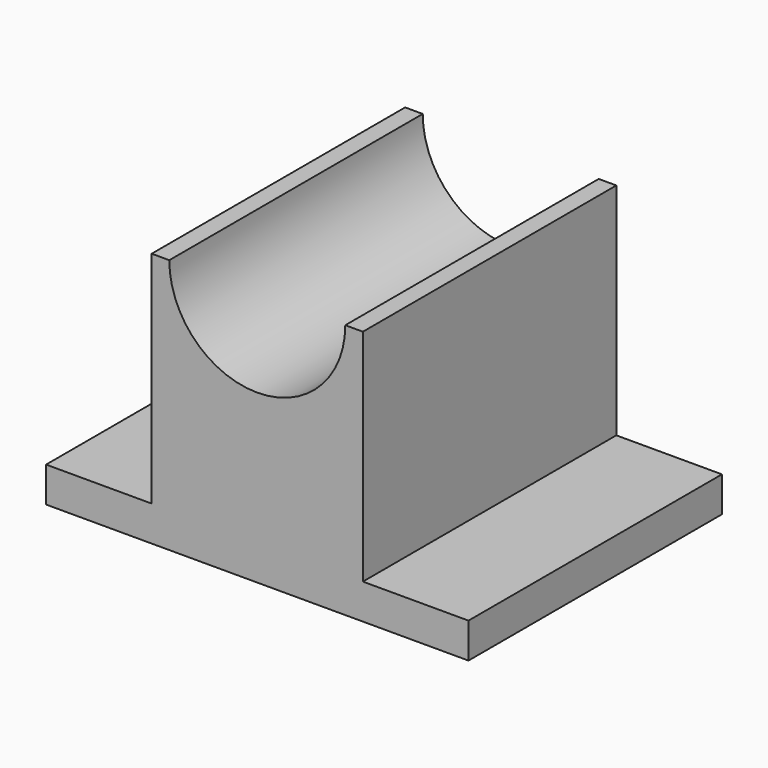
from build123d import *

# Parameters (mm, degrees)
F0_W     = 76.2
F0_H     = 12.7
F0_W_2   = 38.1
F1_DEPTH = 114.3


with BuildPart() as f1:
    # F0 (on Front) → F1 (new body)
    with BuildSketch(Plane.XZ):
        with Locations((-3.983532, 6.35)):
            Rectangle(F0_W, F0_H)
        with Locations((-61.133532, 6.35)):
            Rectangle(F0_W_2, F0_H)
        with Locations((53.166468, 6.35)):
            Rectangle(F0_W_2, F0_H)
        with BuildLine():
            Line((-42.083532, 92.075), (-42.083532, 12.7))
            Line((-42.083532, 12.7), (34.116468, 12.7))
            Line((34.116468, 12.7), (34.116468, 92.075))
            Line((34.116468, 92.075), (27.766468, 92.075))
            ThreePointArc((27.766468, 92.075), (-3.983532, 60.325), (-35.733532, 92.075))
            Line((-35.733532, 92.075), (-42.083532, 92.075))
        make_face()
    extrude(amount=F1_DEPTH)


solid = f1.part
